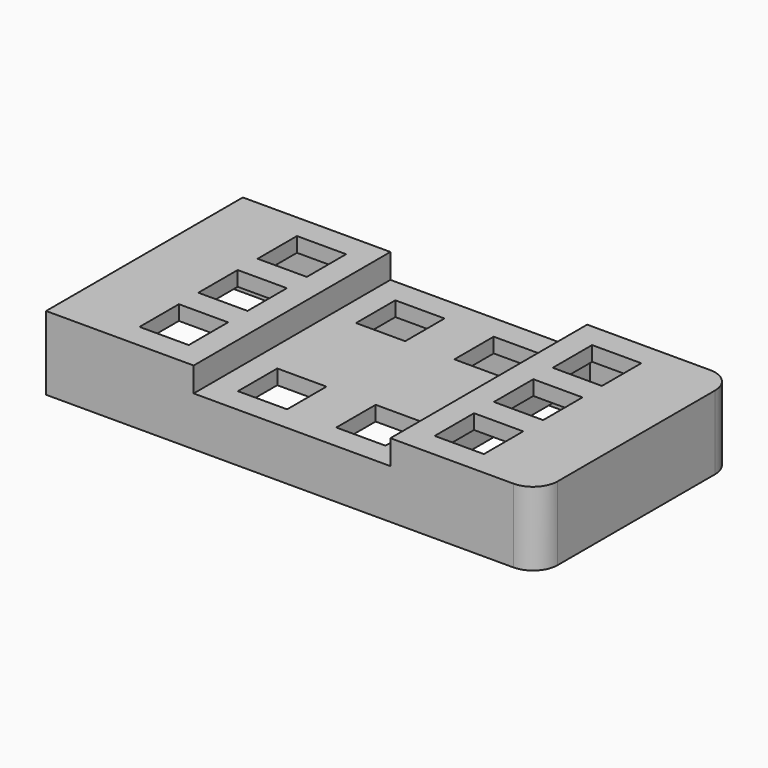
from build123d import *

# Parameters (mm, degrees)
F1_W      = 100
F1_H      = 50
F2_DEPTH  = 15
F3_W      = 40
F3_H      = 5
F4_DEPTH  = 50
F5_T      = -3
F6_W      = 44
F6_H      = 12
F7_DEPTH  = 3
F9_W      = 10
F9_H      = 10
F10_DEPTH = 15.001
F11_R     = 5


with BuildPart() as f2:
    # F1 (on Top) → F2 (new body)
    with BuildSketch(Plane.XY):
        with Locations((50, 25)):
            Rectangle(F1_W, F1_H)
    extrude(amount=F2_DEPTH)

    # F3 (on Front) → F4 (cut, through all)
    with BuildSketch(Plane.XZ):
        with Locations((50, 12.5)):
            Rectangle(F3_W, F3_H)
    extrude(amount=-F4_DEPTH, mode=Mode.SUBTRACT)

    # F5
    f5_openings = [f2.faces().sort_by_distance(p)[0] for p in [
        (50, 25, 0),
    ]]
    offset(amount=F5_T, openings=f5_openings, kind=Kind.INTERSECTION)

    # F6 (on face) → F7 (cut, through all)
    with BuildSketch(Plane(origin=(0, 0, 0), x_dir=(0, -1, 0), z_dir=(-1, 0, 0))):
        with Locations((-25, 6)):
            Rectangle(F6_W, F6_H)
    extrude(amount=-F7_DEPTH, mode=Mode.SUBTRACT)

    # F9 (on offset) → F10 (cut, through all)
    with BuildSketch(Plane.XY.offset(15)):
        with Locations((80, 40)):
            Rectangle(F9_W, F9_H)
        with Locations((80, 10)):
            Rectangle(F9_W, F9_H)
        with Locations((80.0488266349, 25)):
            Rectangle(F9_W, F9_H)
        with Locations((20, 40)):
            Rectangle(F9_W, F9_H)
        with Locations((19.9511733651, 25)):
            Rectangle(F9_W, F9_H)
        with Locations((20, 10)):
            Rectangle(F9_W, F9_H)
        with Locations((60, 40)):
            Rectangle(F9_W, F9_H)
        with Locations((60, 10)):
            Rectangle(F9_W, F9_H)
        with Locations((40, 40)):
            Rectangle(F9_W, F9_H)
        with Locations((40, 10)):
            Rectangle(F9_W, F9_H)
    extrude(amount=-F10_DEPTH, mode=Mode.SUBTRACT)

    # F11
    f11_edges = [f2.edges().sort_by_distance(p)[0] for p in [
        (100, 0, 7.5),
        (100, 50, 7.5),
    ]]
    fillet(f11_edges, radius=F11_R)


solid = f2.part
